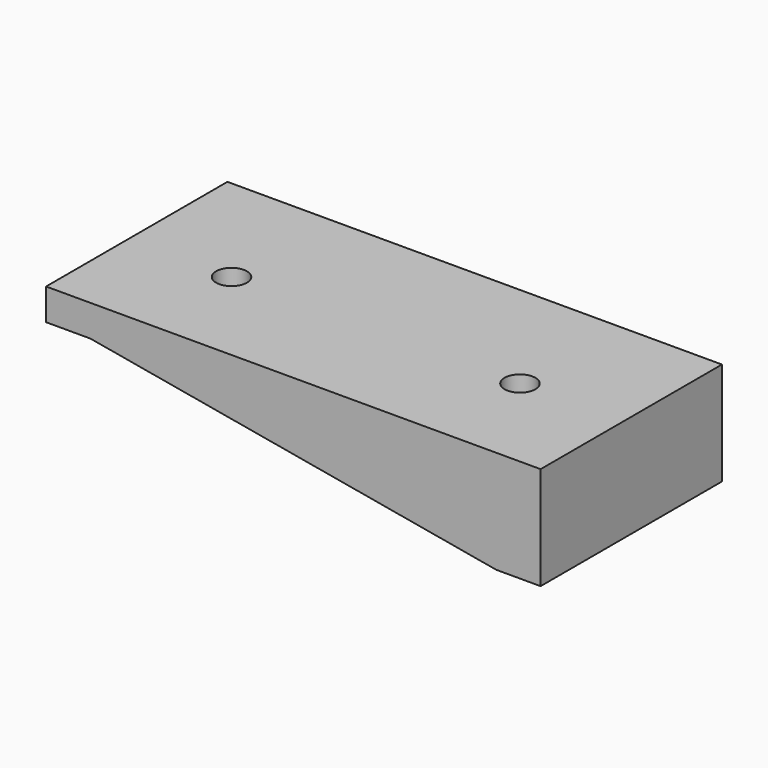
from build123d import *

# Parameters (mm, degrees)
F0_W     = 24
F0_H     = 11
F1_DEPTH = 5
F2_R     = 0.75
F3_DEPTH = 1
F5_DEPTH = 11.001


with BuildPart() as f1:
    # F0 (on Top) → F1 (new body)
    with BuildSketch(Plane.XY):
        Rectangle(F0_W, F0_H)
    extrude(amount=F1_DEPTH)

    # F2 (on face) → F3 (cut)
    with BuildSketch(Plane.XY.offset(5)):
        with Locations((-7, -0.5)):
            Circle(F2_R)
        with Locations((7, -0.5)):
            Circle(F2_R)
    extrude(amount=-F3_DEPTH, mode=Mode.SUBTRACT)

    # F4 (on face) → F5 (cut, through all)
    with BuildSketch(Plane.XZ.offset(5.5)):
        Polygon((-12, 0), (9.848078, 0), (-9.848078, 3.472964), (-12, 3.472964), align=None)
    extrude(amount=-F5_DEPTH, mode=Mode.SUBTRACT)


solid = f1.part
